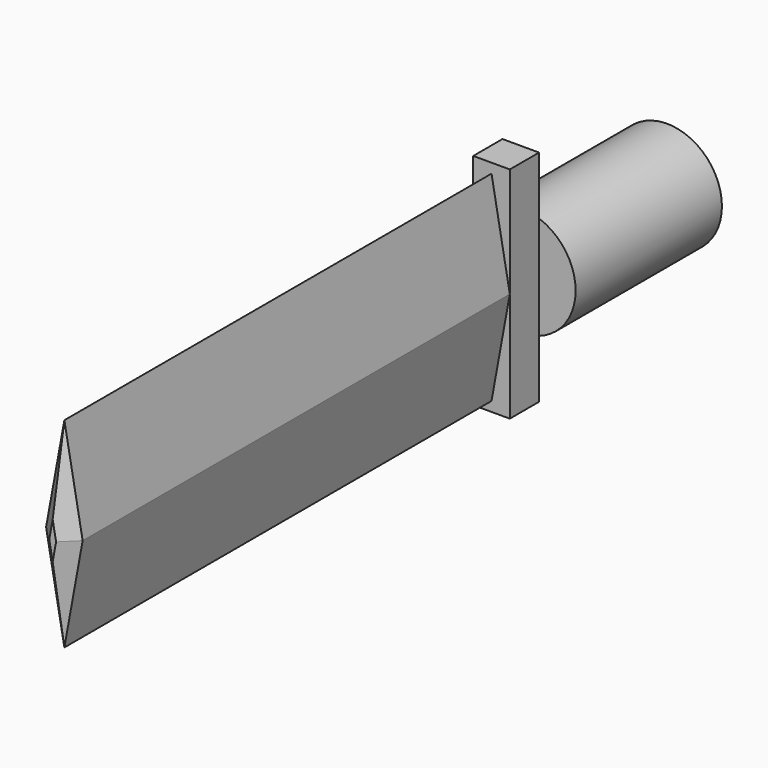
from build123d import *

# Parameters (mm, degrees)
F0_R     = 1.5
F1_DEPTH = 5
F2_W     = 1
F2_H     = 6
F3_DEPTH = 1
F5_DEPTH = 15
F6_SIZE  = 0.4


with BuildPart() as f1:
    # F0 (on Front) → F1 (new body)
    with BuildSketch(Plane.XZ):
        Circle(F0_R)
    extrude(amount=F1_DEPTH)

    # F2 (on face) → F3 (join)
    with BuildSketch(Plane.XZ.offset(5)):
        Rectangle(F2_W, F2_H)
    extrude(amount=F3_DEPTH)

    # F4 (on face) → F5 (join)
    with BuildSketch(Plane.XZ.offset(6)):
        Polygon((0, 2.735806), (-0.5, 0), (0, -2.735806), (0.5, 0), align=None)
    extrude(amount=F5_DEPTH)

    # F6
    f6_edges = [f1.edges().sort_by_distance(p)[0] for p in [
        (0.25, -21, 1.367903),
        (0.25, -21, -1.367903),
        (-0.25, -21, 1.367903),
        (-0.25, -21, -1.367903),
    ]]
    chamfer(f6_edges, length=F6_SIZE)


solid = f1.part
